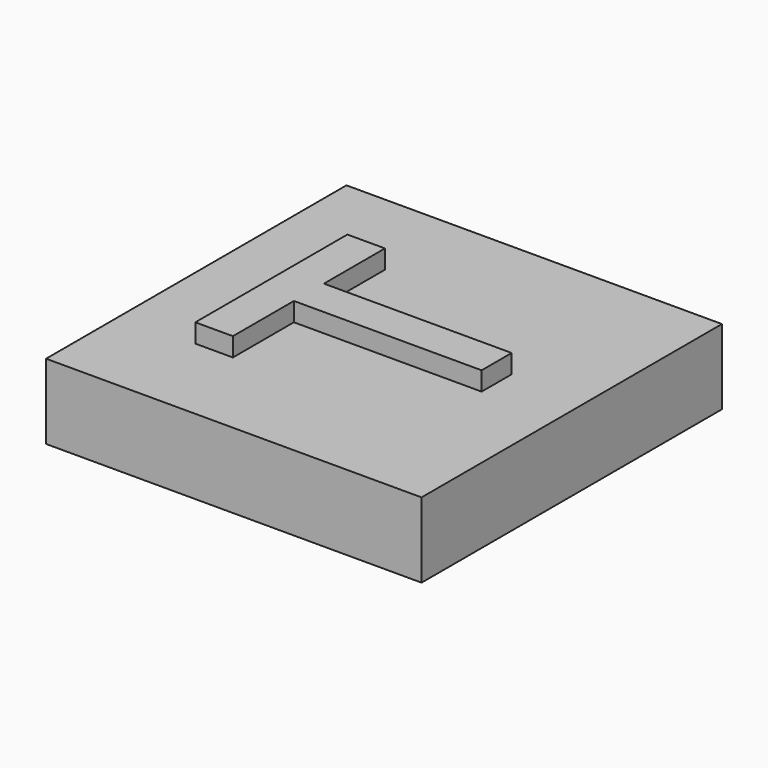
from build123d import *

# Parameters (mm, degrees)
SKETCH_W     = 1000
SKETCH_H     = 1000
PAD_DEPTH    = 200
PAD001_DEPTH = 50


with BuildPart() as part:
    # Sketch → Pad (new body)
    with BuildSketch(Plane.XY):
        Rectangle(SKETCH_W, SKETCH_H)
    extrude(amount=PAD_DEPTH)

    # Sketch001 → Pad001 (new body)
    with BuildSketch(Plane.XY.offset(200)):
        Polygon((-300, 253.105738), (-300, -253.105738), (-200, -253.105738), (-200, -50), (300, -50), (300, 50), (-200, 50), (-200, 253.105738), align=None)
    extrude(amount=PAD001_DEPTH)


solid = part.part
